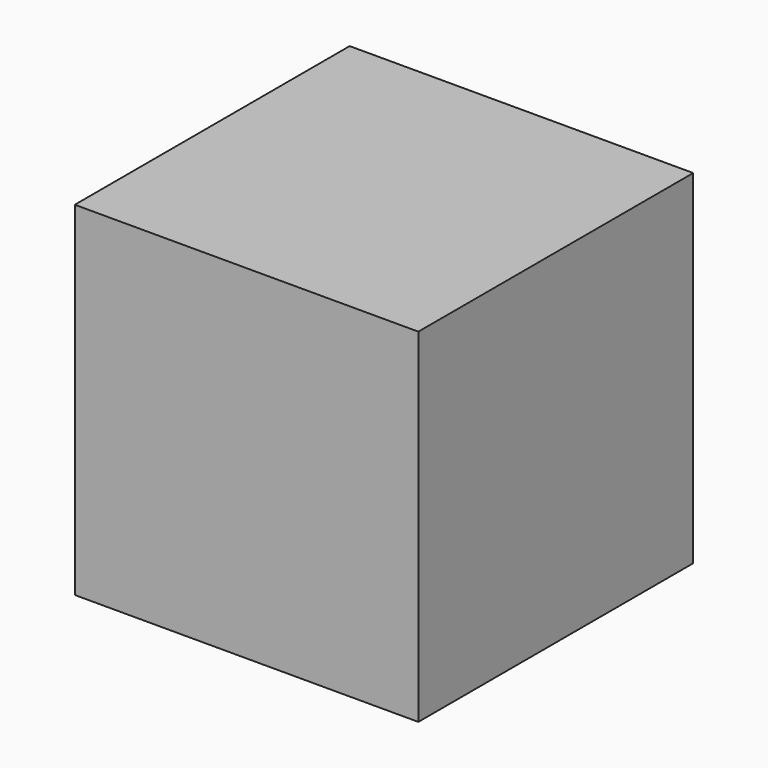
from build123d import *

# Parameters (mm, degrees)
SKETCH_W  = 25.4
SKETCH_H  = 25.4
PAD_DEPTH = 12.7


with BuildPart() as part:
    # Sketch → Pad (new body, symmetric)
    with BuildSketch(Plane.XY):
        Rectangle(SKETCH_W, SKETCH_H)
    extrude(amount=PAD_DEPTH, both=True)


solid = part.part
